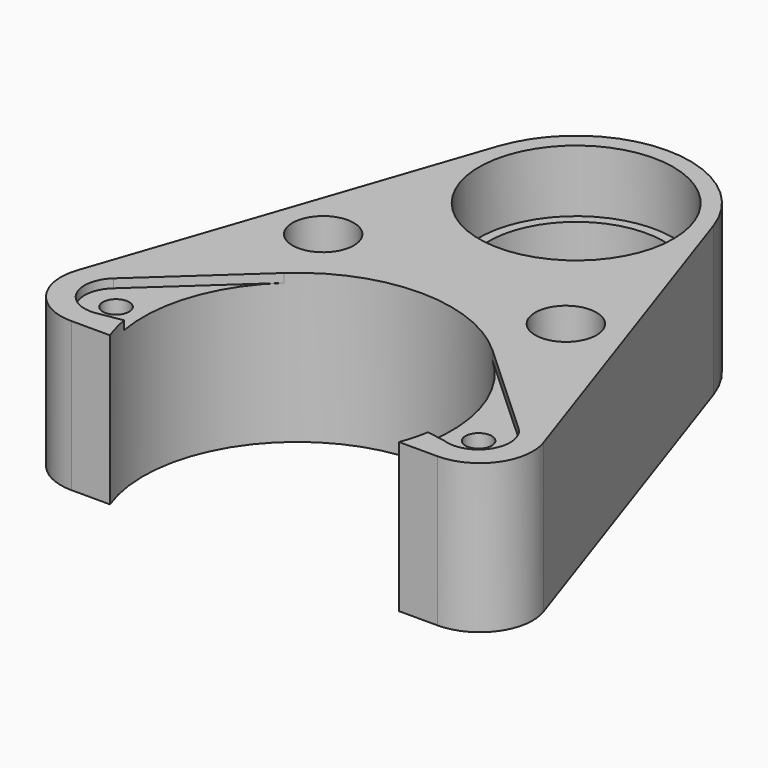
from build123d import *

# Parameters (mm, degrees)
SKETCH_R        = 10
SKETCH_R_2      = 1.5
EXTRUDE_DEPTH   = 17
SKETCH001_R     = 11.1
POCKET_DEPTH    = 7.1
SKETCH002_R     = 3.5
POCKET001_DEPTH = 11
CHAMFER_SIZE    = 1.7
POCKET002_DEPTH = 1


with BuildPart() as part:
    # Sketch → Extrude (new body)
    with BuildSketch(Plane.XY):
        with BuildLine():
            Line((-12.308851, 43.982367), (-26.621029, 1.861132))
            ThreePointArc((-26.621029, 1.861132), (-25.812964, -3.594765), (-20.907103, -6.115142))
            Line((-20.907103, -6.115142), (-16.503486, -6.115142))
            ThreePointArc((16.503486, -6.115142), (0, 17.6), (-16.503486, -6.115142))
            Line((16.503486, -6.115142), (20.907103, -6.115142))
            ThreePointArc((20.907103, -6.115142), (25.812964, -3.594765), (26.621029, 1.861132))
            Line((12.308851, 43.982367), (26.621029, 1.861132))
            ThreePointArc((12.308851, 43.982367), (0, 52.8), (-12.308851, 43.982367))
        make_face()
        with Locations((0, 39.8)):
            Circle(SKETCH_R, mode=Mode.SUBTRACT)
        with Locations((-13.85625, 21.009073)):
            Circle(SKETCH_R_2, mode=Mode.SUBTRACT)
        with Locations((13.85625, 21.009073)):
            Circle(SKETCH_R_2, mode=Mode.SUBTRACT)
        with Locations((20.7, 0)):
            Circle(SKETCH_R_2, mode=Mode.SUBTRACT)
        with Locations((-20.7, 0)):
            Circle(SKETCH_R_2, mode=Mode.SUBTRACT)
    extrude(amount=EXTRUDE_DEPTH)

    # Sketch001 → Pocket (cut)
    with BuildSketch(Plane.XY.offset(17)):
        with Locations((0, 39.8)):
            Circle(SKETCH001_R)
    extrude(amount=-POCKET_DEPTH, mode=Mode.SUBTRACT)

    # Sketch002 → Pocket001 (cut)
    with BuildSketch(Plane.XY.offset(17)):
        with Locations((-13.85625, 21.009073)):
            Circle(SKETCH002_R)
        with Locations((13.85625, 21.009073)):
            Circle(SKETCH002_R)
    extrude(amount=-POCKET001_DEPTH, mode=Mode.SUBTRACT)

    # Chamfer
    chamfer_edges = [part.edges().sort_by_distance(p)[0] for p in [
        (12.35625, 21.009073, 6),
        (-15.35625, 21.009073, 6),
    ]]
    chamfer(chamfer_edges, length=CHAMFER_SIZE)

    # Sketch003 → Pocket002 (cut)
    with BuildSketch(Plane.XY.offset(17)):
        with BuildLine():
            Line((-11.903391, 12.964154), (-23.134783, 2.651761))
            ThreePointArc((-23.134783, 2.651761), (-23.92773, -1.59429), (-20.073913, -3.54514))
            Line((-20.073913, -3.54514), (-17.331794, -3.06087))
            ThreePointArc((-11.903391, 12.964154), (-16.669564, 5.646738), (-17.331794, -3.06087))
        make_face()
        with BuildLine():
            Line((11.903391, 12.964154), (23.134782, 2.651761))
            ThreePointArc((19.479755, -3.386887), (23.779787, -1.864111), (23.134782, 2.651761))
            Line((19.479755, -3.386887), (17.339862, -3.01483))
            ThreePointArc((17.339862, -3.01483), (16.662051, 5.668868), (11.903391, 12.964154))
        make_face()
    extrude(amount=-POCKET002_DEPTH, mode=Mode.SUBTRACT)


solid = part.part
